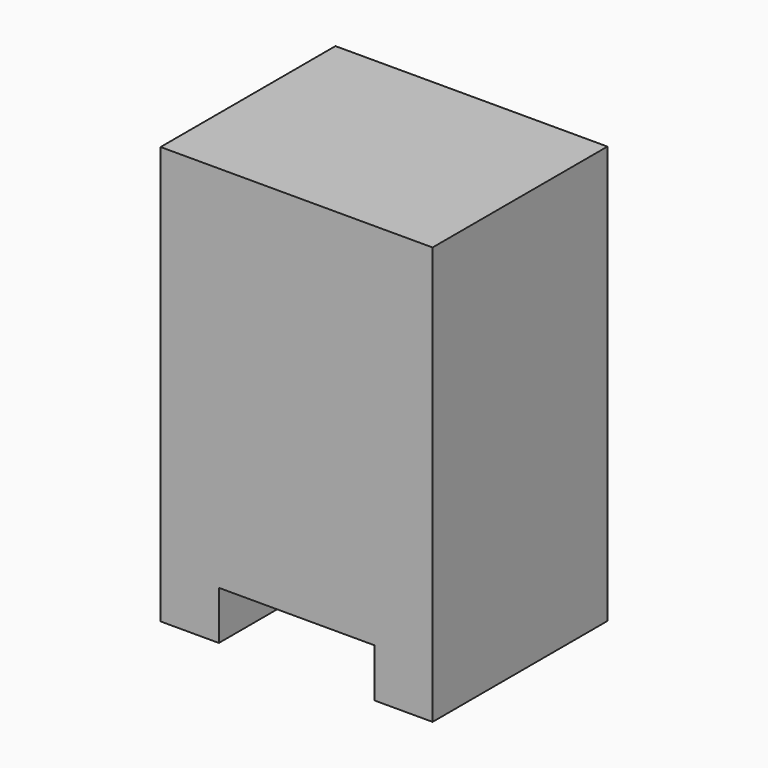
from build123d import *

# Parameters (mm, degrees)
F0_W     = 711.2
F0_H     = 571.5
F1_DEPTH = 1092.2
F2_W     = 406.4
F2_H     = 127
F3_DEPTH = 571.501


with BuildPart() as f1:
    # F0 (on Top) → F1 (new body)
    with BuildSketch(Plane.XY):
        Rectangle(F0_W, F0_H)
    extrude(amount=F1_DEPTH)

    # F2 (on face) → F3 (cut, through all)
    with BuildSketch(Plane.XZ.offset(285.75)):
        with Locations((0, 63.5)):
            Rectangle(F2_W, F2_H)
    extrude(amount=-F3_DEPTH, mode=Mode.SUBTRACT)


solid = f1.part
